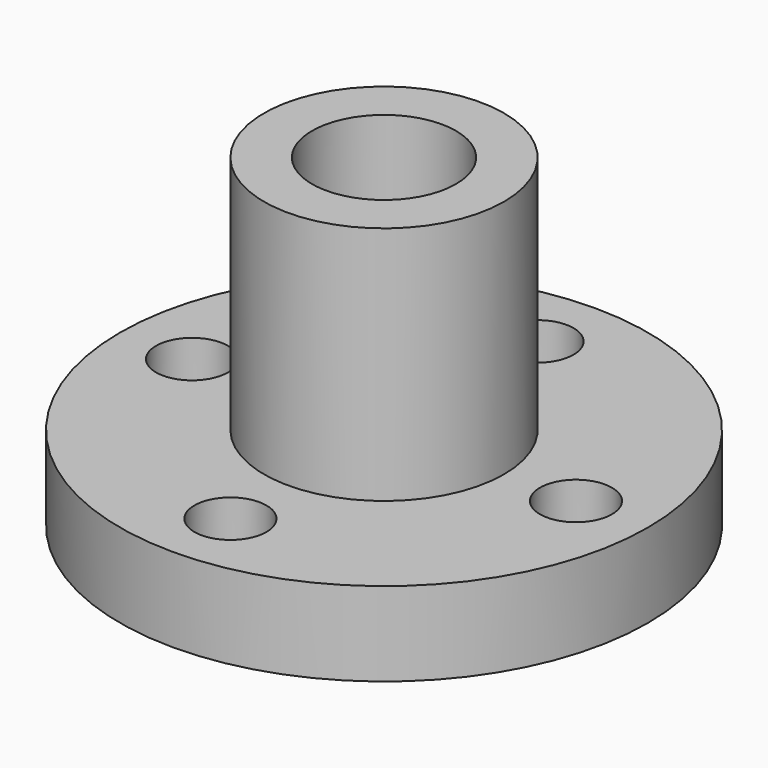
from build123d import *

# Parameters (mm, degrees)
SKETCH_R      = 11
SKETCH_R_2    = 3
SKETCH_R_3    = 1.5
PAD_DEPTH     = 3.5
SKETCH001_R   = 5
SKETCH001_R_2 = 3
PAD001_DEPTH  = 1.5
SKETCH002_R   = 5
SKETCH002_R_2 = 3
PAD002_DEPTH  = 10


with BuildPart() as part:
    # Sketch → Pad (new body)
    with BuildSketch(Plane.XY):
        Circle(SKETCH_R)
        Circle(SKETCH_R_2, mode=Mode.SUBTRACT)
        with Locations((0, 8)):
            Circle(SKETCH_R_3, mode=Mode.SUBTRACT)
        with Locations((-8, 0)):
            Circle(SKETCH_R_3, mode=Mode.SUBTRACT)
        with Locations((0, -8)):
            Circle(SKETCH_R_3, mode=Mode.SUBTRACT)
        with Locations((8, 0)):
            Circle(SKETCH_R_3, mode=Mode.SUBTRACT)
    extrude(amount=PAD_DEPTH)

    # Sketch001 (on Face7 of Pad) → Pad001 (join)
    with BuildSketch(Plane(origin=(0, 0, 0), x_dir=(1, 0, 0), z_dir=(0, 0, -1))):
        Circle(SKETCH001_R)
        Circle(SKETCH001_R_2, mode=Mode.SUBTRACT)
    extrude(amount=PAD001_DEPTH)

    # Sketch002 (on Face3 of Pad001) → Pad002 (join)
    with BuildSketch(Plane.XY.offset(3.5)):
        Circle(SKETCH002_R)
        Circle(SKETCH002_R_2, mode=Mode.SUBTRACT)
    extrude(amount=PAD002_DEPTH)


solid = part.part
